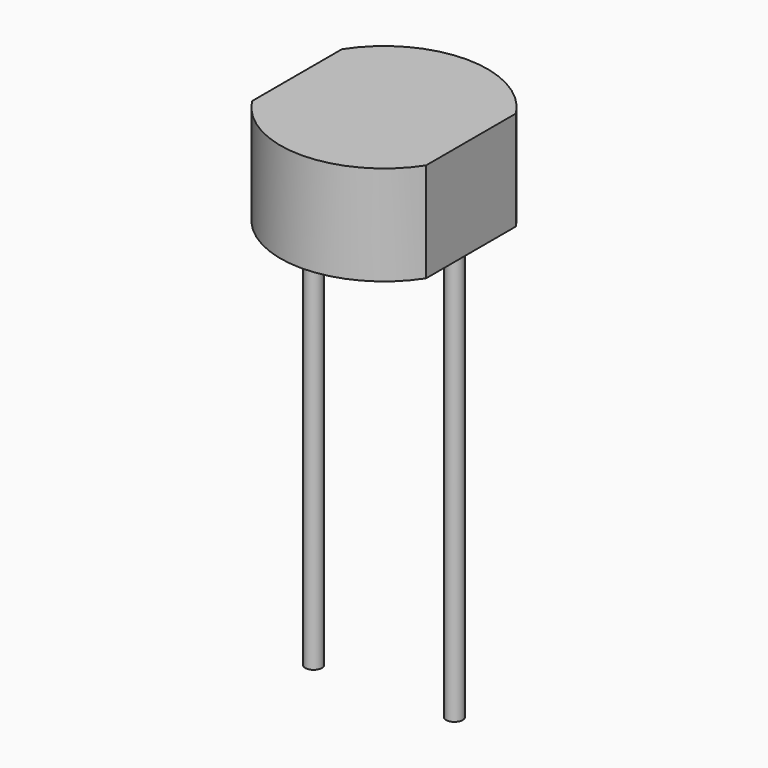
from build123d import *

# Parameters (mm, degrees)
F0_R     = 2.5
F1_DEPTH = 2.4
F2_R     = 0.2
F3_DEPTH = 10
F4_W     = 4.2
F4_H     = 10.528826
F5_DEPTH = 25


with BuildPart() as f1:
    # F0 (on Top) → F1 (new body)
    with BuildSketch(Plane.XY):
        Circle(F0_R)
    extrude(amount=F1_DEPTH)


with BuildPart() as f3:
    # F2 (on face) → F3 (new body)
    with BuildSketch(Plane(origin=(0, 0, 0), x_dir=(1, 0, 0), z_dir=(0, 0, -1))):
        with Locations((-1.7, 0)):
            Circle(F2_R)
        with Locations((1.7, 0)):
            Circle(F2_R)
    extrude(amount=F3_DEPTH)


with BuildPart() as f5_tool:
    # F4 (on face) → F5 (new body)
    with BuildSketch(Plane.XY.offset(2.4)):
        with Locations((0, -0.543658)):
            Rectangle(F4_W, F4_H)
    extrude(amount=-F5_DEPTH)


with BuildPart() as f1_1:
    add(f1.part)

    # F5: intersect by f5_tool
    add(f5_tool.part, mode=Mode.INTERSECT)


with BuildPart() as f3_1:
    add(f3.part)

    # F5: intersect by f5_tool
    add(f5_tool.part, mode=Mode.INTERSECT)


solid = Compound([f1_1.part, f3_1.part])
